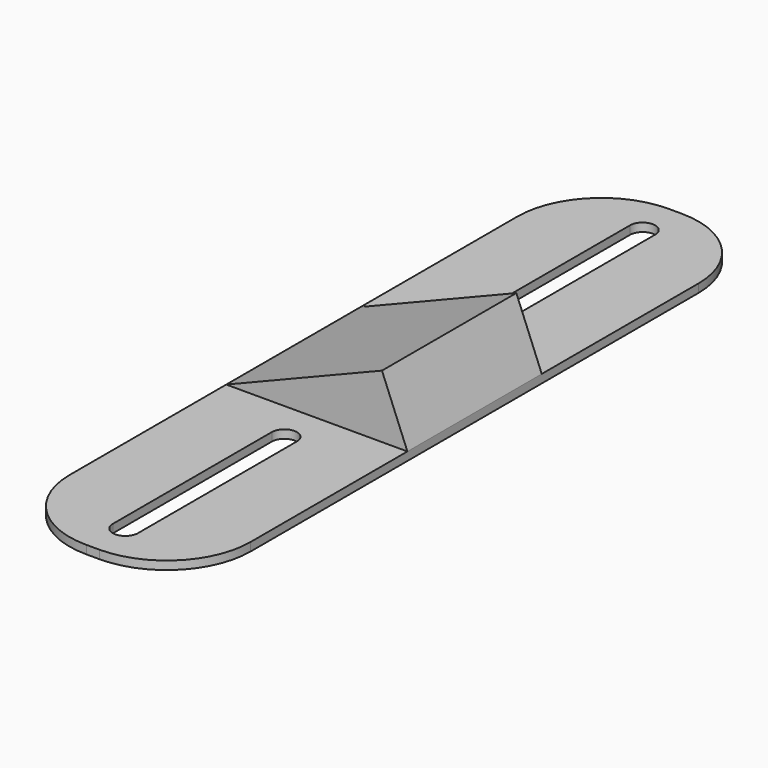
from build123d import *

# Parameters (mm, degrees)
F0_W     = 32.356042
F0_H     = 1.5
F1_DEPTH = 15
F2_DEPTH = 50
F3_R     = 15
F5_DEPTH = 1.5


with BuildPart() as f1:
    # F0 (on Front) → F1 (new body)
    with BuildSketch(Plane.XZ):
        with Locations((-16.178021, 0.75)):
            Rectangle(F0_W, F0_H)
        Polygon((-32.356042, 1.5), (0, 1.5), (-4.540527, 12.738198), align=None)
    extrude(amount=F1_DEPTH)

    # F0 (on Front) → F2 (join)
    with BuildSketch(Plane.XZ):
        with Locations((-16.178021, 0.75)):
            Rectangle(F0_W, F0_H)
    extrude(amount=-F2_DEPTH)

    # F3
    f3_edges = [f1.edges().sort_by_distance(p)[0] for p in [
        (0, 50, 0.75),
        (-32.356042, 50, 0.75),
    ]]
    fillet(f3_edges, radius=F3_R)

    # F4 (on face) → F5 (cut, through all)
    with BuildSketch(Plane.XY.offset(1.5)):
        with BuildLine():
            ThreePointArc((-13.928021, 42.75), (-16.178021, 45), (-18.428021, 42.75))
            Line((-18.428021, 42.75), (-18.428021, 7.25))
            ThreePointArc((-18.428021, 7.25), (-16.178021, 5), (-13.928021, 7.25))
            Line((-13.928021, 7.25), (-13.928021, 42.75))
        make_face()
    extrude(amount=-F5_DEPTH, mode=Mode.SUBTRACT)

    # F6: F1 across face


with BuildPart() as f1_1:
    add(f1.part)
    add(f1.part.mirror(Plane(origin=(-13.1162, -15, 4.298741), x_dir=(1, 0, 0), z_dir=(0, -1, 0))))


solid = f1_1.part
